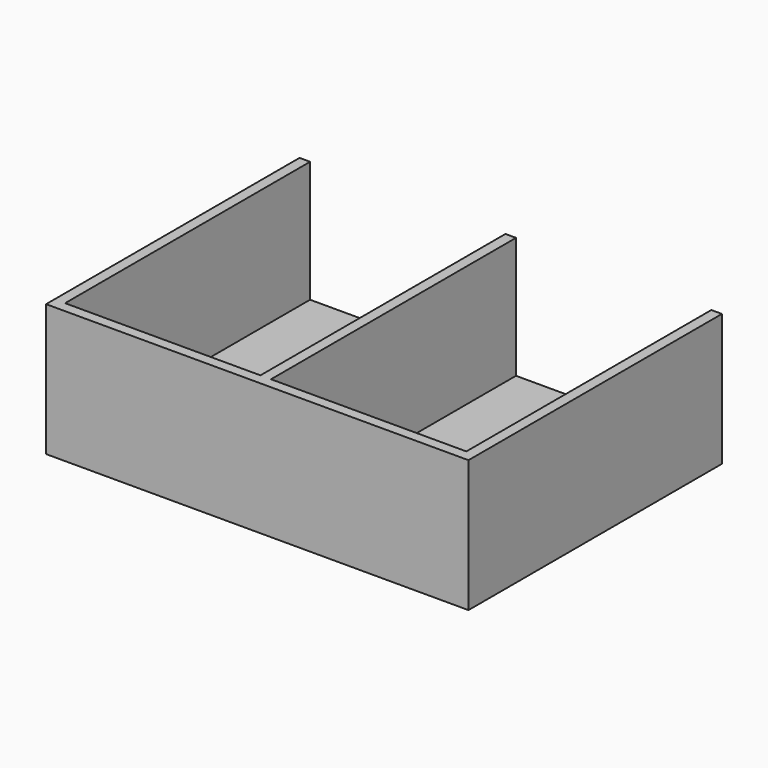
from build123d import *

# Parameters (mm, degrees)
F0_W     = 200
F0_H     = 5800
F1_DEPTH = 2500
F0_W_2   = 3700
F2_DEPTH = 200


with BuildPart() as f1:
    # F0 (on Top) → F1 (new body)
    with BuildSketch(Plane.XY):
        with Locations((3904.866975, 3021.082016)):
            Rectangle(F0_W, F0_H)
        Polygon((3804.866975, 121.082016), (104.866975, 121.082016), (104.866975, -78.917984), (7704.866975, -78.917984), (7704.866975, 0), (7704.866975, 121.082016), (4004.866975, 121.082016), align=None)
        Polygon((7704.866975, 0), (7704.866975, -78.917984), (7904.866975, -78.917984), (7904.866975, 5921.082016), (7704.866975, 5921.082016), (7704.866975, 121.082016), align=None)
        Polygon((104.866975, 5921.082016), (-95.133025, 5921.082016), (-95.133025, -78.917984), (104.866975, -78.917984), (104.866975, 121.082016), align=None)
    extrude(amount=F1_DEPTH)

    # F0 (on Top) → F2 (join)
    with BuildSketch(Plane.XY):
        Polygon((104.866975, 5921.082016), (-95.133025, 5921.082016), (-95.133025, -78.917984), (104.866975, -78.917984), (104.866975, 121.082016), align=None)
        with Locations((1954.866975, 3021.082016)):
            Rectangle(F0_W_2, F0_H)
        with Locations((3904.866975, 3021.082016)):
            Rectangle(F0_W, F0_H)
        Polygon((3804.866975, 121.082016), (104.866975, 121.082016), (104.866975, -78.917984), (7704.866975, -78.917984), (7704.866975, 0), (7704.866975, 121.082016), (4004.866975, 121.082016), align=None)
        with Locations((5854.866975, 3021.082016)):
            Rectangle(F0_W_2, F0_H)
        Polygon((7704.866975, 0), (7704.866975, -78.917984), (7904.866975, -78.917984), (7904.866975, 5921.082016), (7704.866975, 5921.082016), (7704.866975, 121.082016), align=None)
    extrude(amount=F2_DEPTH)


solid = f1.part
